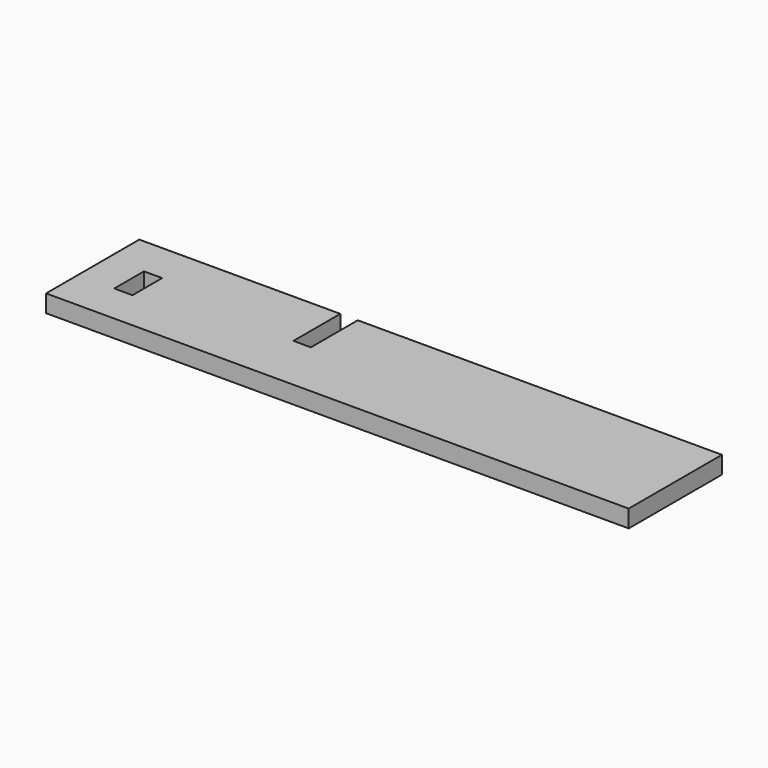
from build123d import *

# Parameters (mm, degrees)
F0_W     = 5
F0_H     = 10.2
F1_DEPTH = 4.8


with BuildPart() as f1:
    # F0 (on Top) → F1 (new body)
    with BuildSketch(Plane.XY):
        Polygon((0, 32), (0, 0), (160, 0), (160, 32), (60, 32), (60, 15.9), (55.2, 15.9), (55.2, 32), align=None)
        with Locations((12.5, 16)):
            Rectangle(F0_W, F0_H, mode=Mode.SUBTRACT)
    extrude(amount=F1_DEPTH)


solid = f1.part
